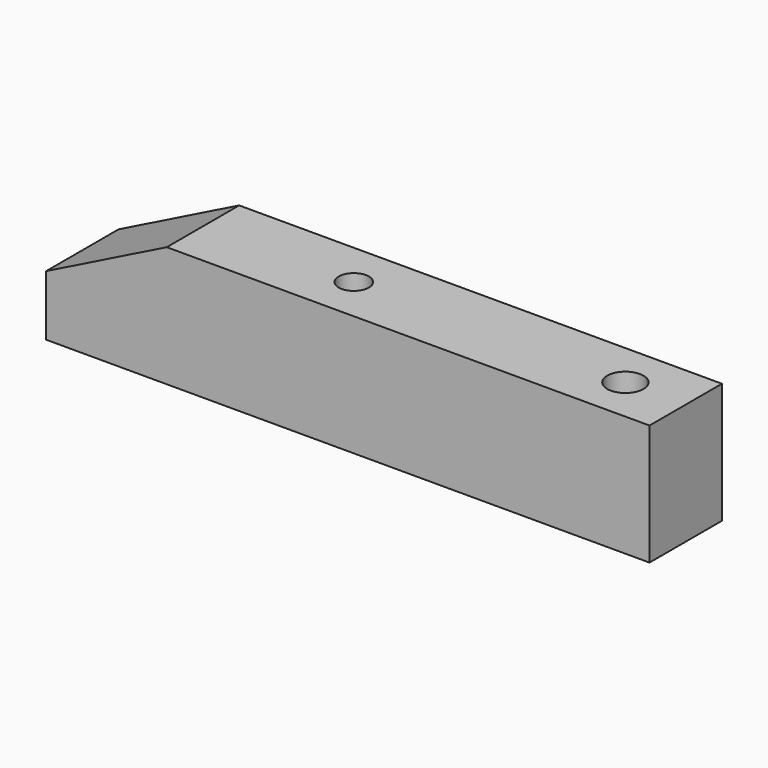
from build123d import *

# Parameters (mm, degrees)
F1_DEPTH = 15
F3_D     = 5
F2_R     = 3
F4_DEPTH = 25


with BuildPart() as f1:
    # F0 (on Front) → F1 (new body)
    with BuildSketch(Plane.XZ):
        Polygon((-43.1142237037, 16.1099138111), (-43.1142237037, 6.1099138111), (56.8857762963, 6.1099138111), (56.8857762963, 26.1099138111), (-23.1142237037, 26.1099138111), align=None)
    extrude(amount=F1_DEPTH)

    # F3 (through all)
    with Locations(Plane.XY.offset(26.1099138111)):
        with Locations((1.8857762963, -7.5)):
            Hole(F3_D / 2)

    # F2 (on face) → F4 (cut)
    with BuildSketch(Plane.XY.offset(26.1099138111)):
        with Locations((46.8857762963, -7.5)):
            Circle(F2_R)
    extrude(amount=-F4_DEPTH, mode=Mode.SUBTRACT)


solid = f1.part
